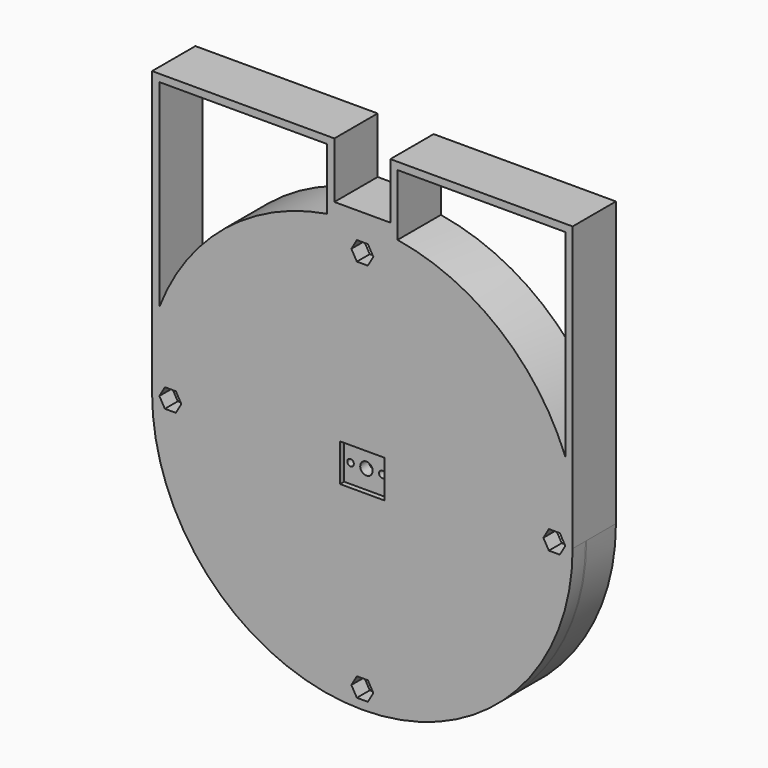
from build123d import *

# Parameters (mm, degrees)
SKETCH057_R     = 57.5
SKETCH057_R_2   = 50.2
PAD016_DEPTH    = 10
SKETCH058_R     = 57.5
SKETCH058_R_2   = 52.7
PAD017_DEPTH    = 10
SKETCH059_R     = 55.2
SKETCH059_R_2   = 45.630592
POCKET029_DEPTH = 10.001
SKETCH060_R     = 55.2
SKETCH060_R_2   = 52.7
PAD018_DEPTH    = 2.6
SKETCH061_R     = 57.5
SKETCH061_R_2   = 52.7
PAD019_DEPTH    = 0.4
SKETCH062_R     = 1.75
POCKET030_DEPTH = 5
SKETCH063_R     = 57.5
PAD020_DEPTH    = 4.4
SKETCH064_W     = 12.18
SKETCH064_H     = 10.29
POCKET031_DEPTH = 1.4
SKETCH065_R     = 1.7
POCKET032_DEPTH = 14.801
SKETCH066_R     = 0.9
POCKET033_DEPTH = 14.801
SKETCH067_R     = 1.55
POCKET034_DEPTH = 1
PAD021_DEPTH    = 14.8


with BuildPart() as part:
    # Sketch057 (on DatumPlane) → Pad016 (new body)
    with BuildSketch(Plane.XZ.offset(10)):
        Circle(SKETCH057_R)
        Circle(SKETCH057_R_2, mode=Mode.SUBTRACT)
    extrude(amount=-PAD016_DEPTH)

    # Sketch058 (on DatumPlane) → Pad017 (new body)
    with BuildSketch(Plane.XZ.offset(10)):
        Circle(SKETCH058_R)
        Circle(SKETCH058_R_2, mode=Mode.SUBTRACT)
    extrude(amount=-PAD017_DEPTH)

    # Sketch059 (on Face4 of PolarPattern006) → Pocket029 (cut, through all)
    with BuildSketch(Plane.XZ.offset(10)):
        Circle(SKETCH059_R)
        Circle(SKETCH059_R_2, mode=Mode.SUBTRACT)
    extrude(amount=-POCKET029_DEPTH, mode=Mode.SUBTRACT)

    # Sketch060 (on Face2 of Pocket029) → Pad018 (new body)
    with BuildSketch(Plane.XZ.offset(10)):
        Circle(SKETCH060_R)
        Circle(SKETCH060_R_2, mode=Mode.SUBTRACT)
    extrude(amount=-PAD018_DEPTH)

    # Sketch061 (on Face6 of Pad018) → Pad019 (new body)
    with BuildSketch(Plane.XZ.offset(10)):
        Circle(SKETCH061_R)
        Circle(SKETCH061_R_2, mode=Mode.SUBTRACT)
    extrude(amount=PAD019_DEPTH)

    # Sketch062 (on Face5 of Pad019) → Pocket030 (cut)
    with BuildSketch(Plane.XZ.offset(10.4)):
        with Locations((0, -52.5)):
            Circle(SKETCH062_R)
        with Locations((-52.5, 0)):
            Circle(SKETCH062_R)
        with Locations((0, 52.5)):
            Circle(SKETCH062_R)
        with Locations((52.5, 0)):
            Circle(SKETCH062_R)
    extrude(amount=-POCKET030_DEPTH, mode=Mode.SUBTRACT)

    # Sketch063 (on Face4 of Pocket030) → Pad020 (new body)
    with BuildSketch(Plane.XZ.offset(10.4)):
        Circle(SKETCH063_R)
        Polygon((3, -52.5), (1.5, -49.901924), (-1.5, -49.901924), (-3, -52.5), (-1.5, -55.098076), (1.5, -55.098076), align=None, mode=Mode.SUBTRACT)
        Polygon((3, 52.5), (1.5, 55.098076), (-1.5, 55.098076), (-3, 52.5), (-1.5, 49.901924), (1.5, 49.901924), align=None, mode=Mode.SUBTRACT)
        Polygon((-49.5, 0), (-51, 2.598076), (-54, 2.598076), (-55.5, 0), (-54, -2.598076), (-51, -2.598076), align=None, mode=Mode.SUBTRACT)
        Polygon((55.5, 0), (54, 2.598076), (51, 2.598076), (49.5, 0), (51, -2.598076), (54, -2.598076), align=None, mode=Mode.SUBTRACT)
    extrude(amount=PAD020_DEPTH)

    # Sketch064 (on Face13 of Pad020) → Pocket031 (cut)
    with BuildSketch(Plane.XZ.offset(14.8)):
        Rectangle(SKETCH064_W, SKETCH064_H)
    extrude(amount=-POCKET031_DEPTH, mode=Mode.SUBTRACT)

    # Sketch065 (on Face4 of Pocket031) → Pocket032 (cut, through all)
    with BuildSketch(Plane.XZ.offset(14.8)):
        Circle(SKETCH065_R)
    extrude(amount=-POCKET032_DEPTH, mode=Mode.SUBTRACT)

    # Sketch066 (on Face4 of Pocket032) → Pocket033 (cut, through all)
    with BuildSketch(Plane.XZ.offset(14.8)):
        with Locations((-4.35, 0)):
            Circle(SKETCH066_R)
        with Locations((4.35, 0)):
            Circle(SKETCH066_R)
    extrude(amount=-POCKET033_DEPTH, mode=Mode.SUBTRACT)

    # Sketch067 (on Face42 of Pocket033) → Pocket034 (cut)
    with BuildSketch(Plane(origin=(0, -10.4, 0), x_dir=(1, 0, 0), z_dir=(0, 1, 0))):
        with Locations((-4.35, 0)):
            Circle(SKETCH067_R)
        with Locations((4.35, 0)):
            Circle(SKETCH067_R)
    extrude(amount=-POCKET034_DEPTH, mode=Mode.SUBTRACT)

    # Sketch068 (on Face1 of Pocket034) → Pad021 (new body)
    with BuildSketch(Plane(origin=(0, 0, 0), x_dir=(1, 0, 0), z_dir=(0, 1, 0))):
        with BuildLine():
            Line((-7.65, -62.26), (7.65, -62.26))
            Line((7.65, -62.26), (7.65, -77.56))
            Line((7.65, -77.56), (57.5, -77.56))
            Line((57.5, 0), (57.5, -77.56))
            ThreePointArc((-57.5, 0), (0, -57.5), (57.5, 0))
            Line((-57.5, 0), (-57.5, -77.56))
            Line((-57.5, -77.56), (-7.65, -77.56))
            Line((-7.65, -62.26), (-7.65, -77.56))
        make_face()
        with BuildLine():
            Line((9.640661, -58.760865), (9.65, -75.56))
            Line((9.65, -75.56), (55.5, -75.56))
            Line((55.500076, -21.447651), (55.5, -75.56))
            ThreePointArc((9.640661, -58.760865), (37.533805, -46.204517), (55.500076, -21.447651))
        make_face(mode=Mode.SUBTRACT)
        with BuildLine():
            Line((-9.65, -75.56), (-55.5, -75.56))
            Line((-55.500076, -21.447651), (-55.5, -75.56))
            ThreePointArc((-55.500076, -21.447651), (-37.533805, -46.204517), (-9.640661, -58.760865))
            Line((-9.640661, -58.760865), (-9.65, -75.56))
        make_face(mode=Mode.SUBTRACT)
    extrude(amount=-PAD021_DEPTH)


solid = part.part
